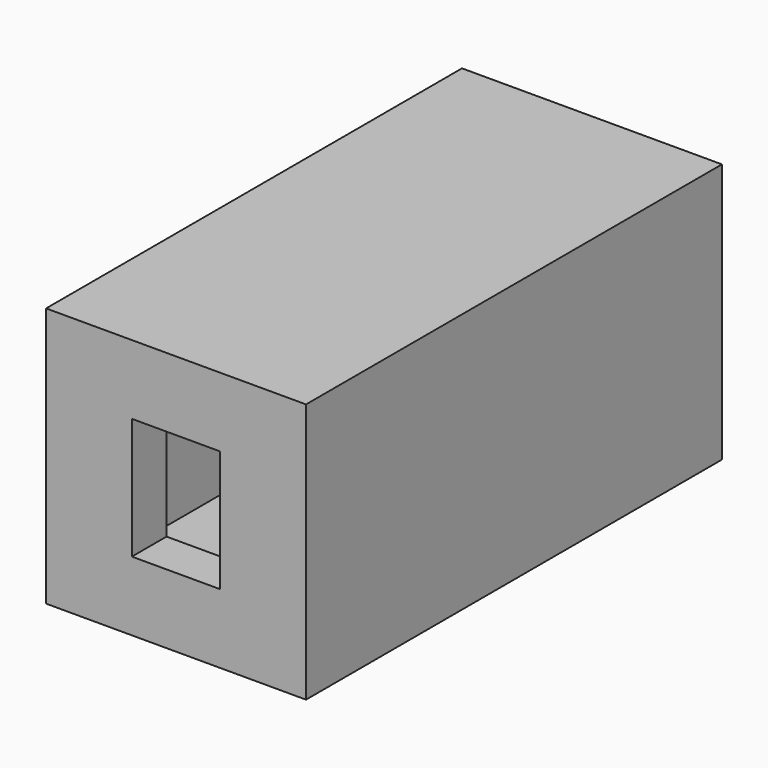
from build123d import *

# Parameters (mm, degrees)
F0_W     = 15
F0_H     = 15
F0_W_2   = 5.1
F0_H_2   = 7
F1_DEPTH = 30
F2_T     = -2.5


with BuildPart() as f1:
    # F0 (on Front) → F1 (new body)
    with BuildSketch(Plane.XZ):
        Rectangle(F0_W, F0_H)
        Rectangle(F0_W_2, F0_H_2, mode=Mode.SUBTRACT)
    extrude(amount=F1_DEPTH)

    # F2
    f2_openings = [f1.faces().sort_by_distance(p)[0] for p in [
        (7.287868, 0, 0),
        (0, -15, -3.5),
        (2.55, -15, 0),
        (-2.55, -15, 0),
        (0, -15, 3.5),
    ]]
    offset(amount=F2_T, openings=f2_openings)


solid = f1.part
